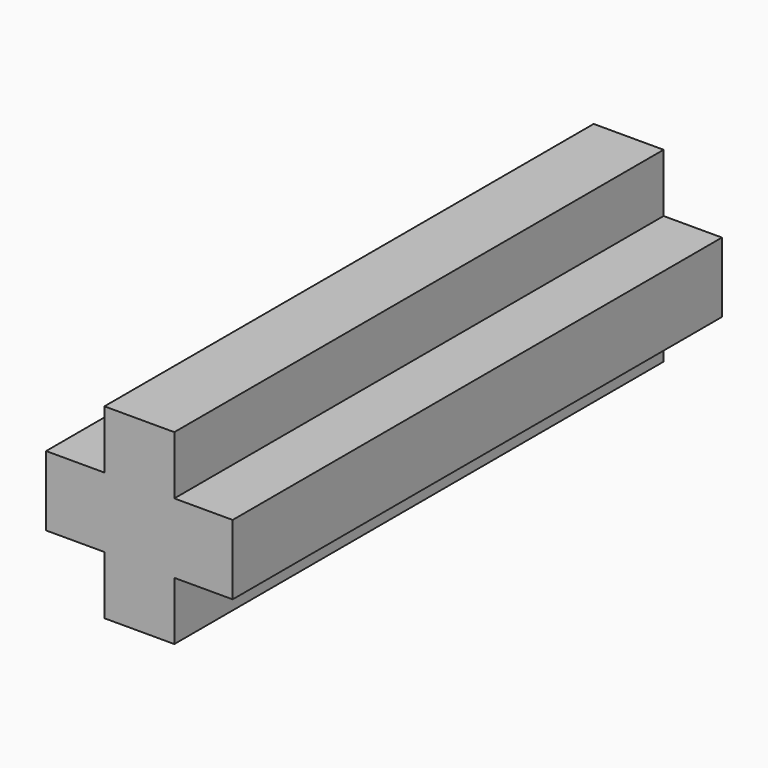
from build123d import *

# Parameters (mm, degrees)
F0_W     = 0.89
F0_H     = 0.89
F1_DEPTH = 7.785


with BuildPart() as f1:
    # F0 (on Front) → F1 (new body, symmetric)
    with BuildSketch(Plane.XZ):
        Polygon((-0.89, 0.89), (-2.375, 0.89), (-2.375, -0.89), (-0.89, -0.89), (-0.89, 0), align=None)
        Polygon((-0.89, 2.375), (-0.89, 0.89), (0, 0.89), (0.89, 0.89), (0.89, 2.375), align=None)
        with Locations((-0.445, 0.445)):
            Rectangle(F0_W, F0_H)
        with Locations((0.445, 0.445)):
            Rectangle(F0_W, F0_H)
        with Locations((-0.445, -0.445)):
            Rectangle(F0_W, F0_H)
        Polygon((0, -0.89), (-0.89, -0.89), (-0.89, -2.375), (0.89, -2.375), (0.89, -0.89), align=None)
        Polygon((2.375, 0.89), (0.89, 0.89), (0.89, 0), (0.89, -0.89), (2.375, -0.89), align=None)
        with Locations((0.445, -0.445)):
            Rectangle(F0_W, F0_H)
    extrude(amount=F1_DEPTH, both=True)


solid = f1.part
